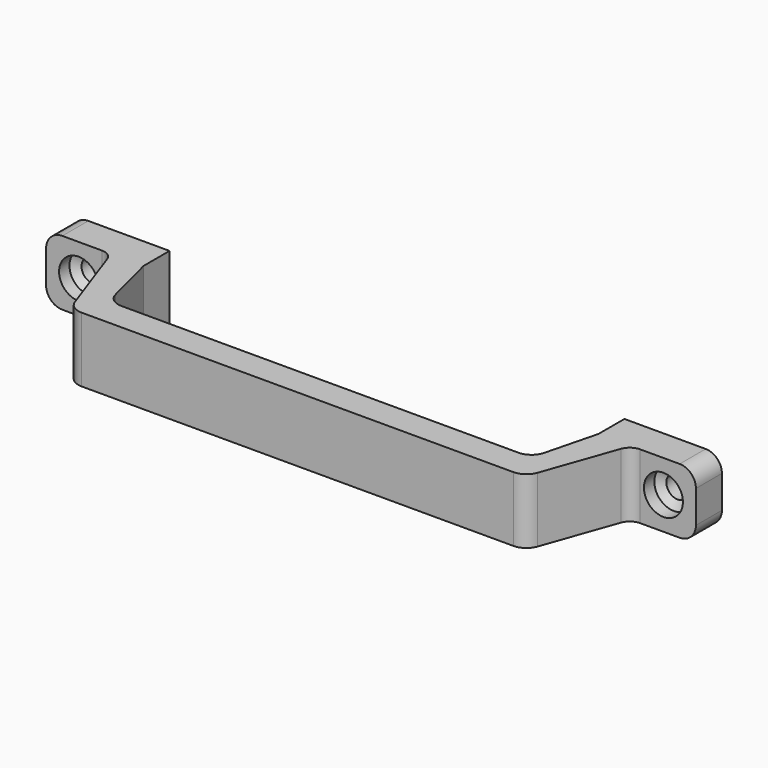
from build123d import *

# Parameters (mm, degrees)
F0_W     = 20
F0_H     = 10
F0_W_2   = 10
F1_DEPTH = 20
F3_D     = 7
F4_D     = 12
F4_DEPTH = 4
F4_TIP   = 3.6051637142
F5_R     = 5
F6_R     = 4
F7_R     = 5


with BuildPart() as f1:
    # F0 (on Top) → F1 (new body)
    with BuildSketch(Plane.XY):
        with Locations((-90, 0)):
            Rectangle(F0_W, F0_H)
        Polygon((-70, -5), (-80, -5), (-70, -33.2842712475), (70, -33.2842712475), (80, -5), (70, -5), (65, -24.6240172096), (-65, -24.6240172096), align=None)
        with Locations((-75, 0)):
            Rectangle(F0_W_2, F0_H)
        with Locations((75, 0)):
            Rectangle(F0_W_2, F0_H)
        with Locations((90, 0)):
            Rectangle(F0_W, F0_H)
    extrude(amount=F1_DEPTH)

    # F3 (through all)
    with Locations(Plane.XZ.offset(5)):
        with Locations((-90, 10), (90, 10)):
            Hole(F3_D / 2)

    # F4
    with Locations(Plane.XZ.offset(5)):
        with Locations((-90, 10), (90, 10)):
            Hole(F4_D / 2, depth=F4_DEPTH)
            with Locations((0, 0, -(F4_DEPTH + F4_TIP / 2))):  # 118° drill point
                Cone(0, F4_D / 2, F4_TIP, mode=Mode.SUBTRACT)

    # F5
    f5_edges = [f1.edges().sort_by_distance(p)[0] for p in [
        (-100, 0, 20),
        (-100, 0, 0),
        (100, 0, 20),
        (100, 0, 0),
    ]]
    fillet(f5_edges, radius=F5_R)

    # F6
    f6_edges = [f1.edges().sort_by_distance(p)[0] for p in [
        (-80, -5, 10),
        (80, -5, 10),
    ]]
    fillet(f6_edges, radius=F6_R)

    # F7
    f7_edges = [f1.edges().sort_by_distance(p)[0] for p in [
        (-70, -33.284271, 10),
        (70, -33.284271, 10),
        (-65, -24.624017, 10),
        (65, -24.624017, 10),
    ]]
    fillet(f7_edges, radius=F7_R)


solid = f1.part
